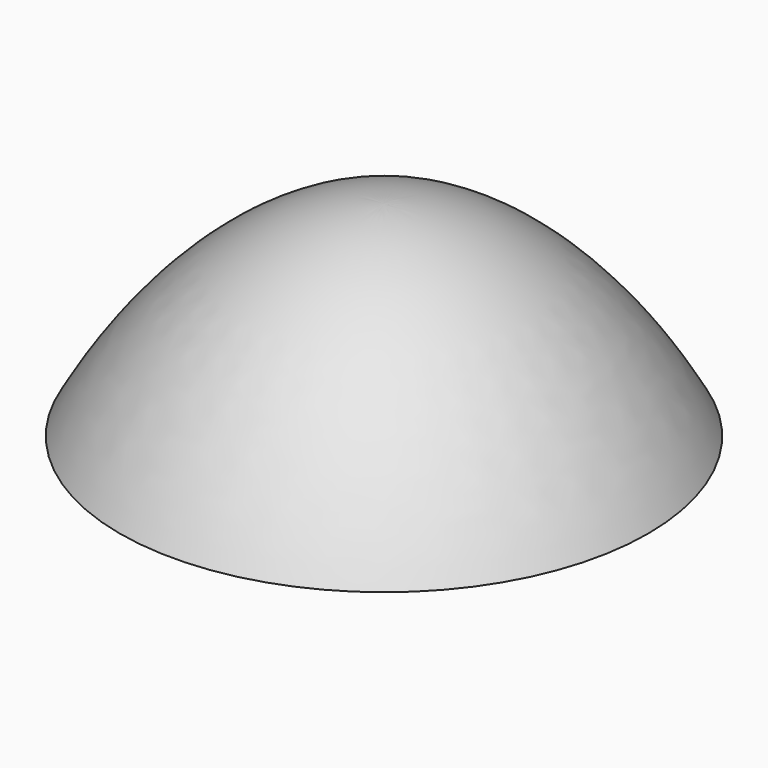
from build123d import *


with BuildPart() as f1:
    # F0 (on Front) → F1 (revolve)
    with BuildSketch(Plane.XZ):
        with BuildLine():
            add(Edge.make_bspline(
                [(0, 1953.3363603202), (-402.4669546989, 1953.8450046064), (-784.5919242944, 1595.4768982699), (-1023.328218776, 1160.4922653193)],
                knots=[0, 0, 0, 0, 0.3018174881, 0.3018174881, 0.3018174881, 0.3018174881], degree=3))
            Line((-1023.328218776, 1160.4922653193), (-848.1202588462, 1160.4922653193))
            add(Edge.make_bspline(
                [(-848.1202588462, 1160.4922653193), (-652.0048370274, 1489.5295962092), (-360.9888404674, 1775.105638859), (0, 1800.6627706009)],
                knots=[0.7723279874, 0.7723279874, 0.7723279874, 0.7723279874, 1, 1, 1, 1], degree=3))
            Line((0, 1800.6627706009), (0, 1953.3363603202))
        make_face()
    revolve(axis=Axis((0, 0, 1876.9995654606), (0, 0, -1)))


solid = f1.part
